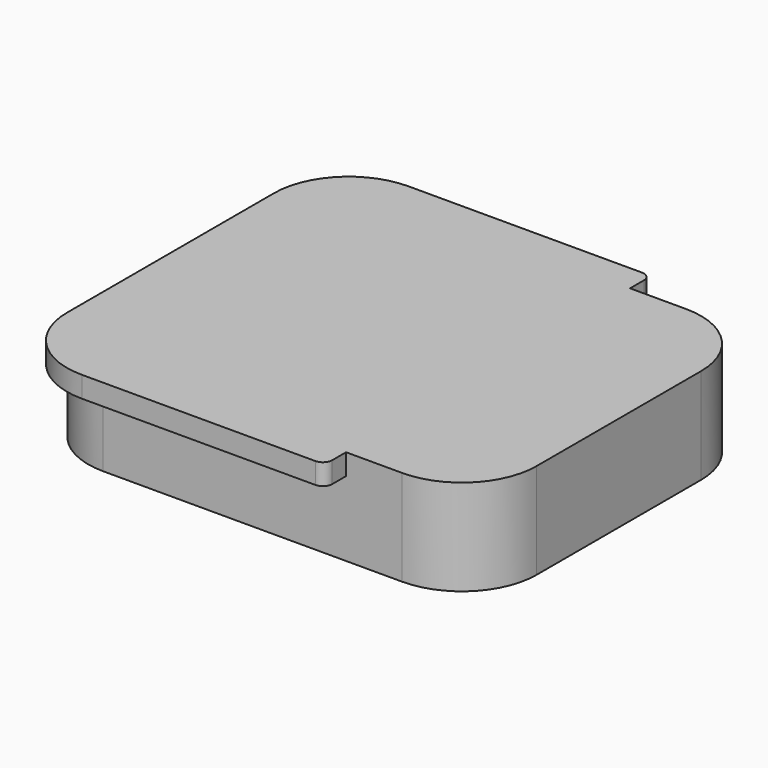
from build123d import *

# Parameters (mm, degrees)
F1_DEPTH = 10.25
F3_DEPTH = 2.25


with BuildPart() as f1:
    # F0 (on Top) → F1 (new body)
    with BuildSketch(Plane.XY):
        with BuildLine():
            Line((-16, -19), (16, -19))
            ThreePointArc((16, -19), (21.656854, -16.656854), (24, -11))
            Line((24, -11), (24, 11))
            ThreePointArc((24, 11), (21.656854, 16.656854), (16, 19))
            Line((16, 19), (-16, 19))
            ThreePointArc((-16, 19), (-21.656854, 16.656854), (-24, 11))
            Line((-24, 11), (-24, -11))
            ThreePointArc((-24, -11), (-21.656854, -16.656854), (-16, -19))
        make_face()
    extrude(amount=F1_DEPTH)

    # F2 (on face) → F3 (join)
    with BuildSketch(Plane.XY.offset(10.25)):
        with BuildLine():
            Line((9, 21.85), (-16, 21.85))
            ThreePointArc((-16, 21.85), (-21.656854, 19.506854), (-24, 13.85))
            Line((-24, 13.85), (-24, 11))
            ThreePointArc((-24, 11), (-21.656854, 16.656854), (-16, 19))
            Line((-16, 19), (10, 19))
            Line((10, 19), (10, 20.85))
            ThreePointArc((10, 20.85), (9.707107, 21.557107), (9, 21.85))
        make_face()
        with BuildLine():
            ThreePointArc((-16, -19), (-21.656854, -16.656854), (-24, -11))
            Line((-24, -11), (-24, -13.85))
            ThreePointArc((-24, -13.85), (-21.656854, -19.506854), (-16, -21.85))
            Line((-16, -21.85), (9, -21.85))
            ThreePointArc((9, -21.85), (9.707107, -21.557107), (10, -20.85))
            Line((10, -20.85), (10, -19))
            Line((10, -19), (-16, -19))
        make_face()
        with BuildLine():
            ThreePointArc((-16, 19), (-21.656854, 16.656854), (-24, 11))
            Line((-24, 11), (-24, -11))
            ThreePointArc((-24, -11), (-21.656854, -16.656854), (-16, -19))
            Line((-16, -19), (10, -19))
            Line((10, -19), (10, 19))
            Line((10, 19), (-16, 19))
        make_face()
    extrude(amount=-F3_DEPTH)


solid = f1.part
